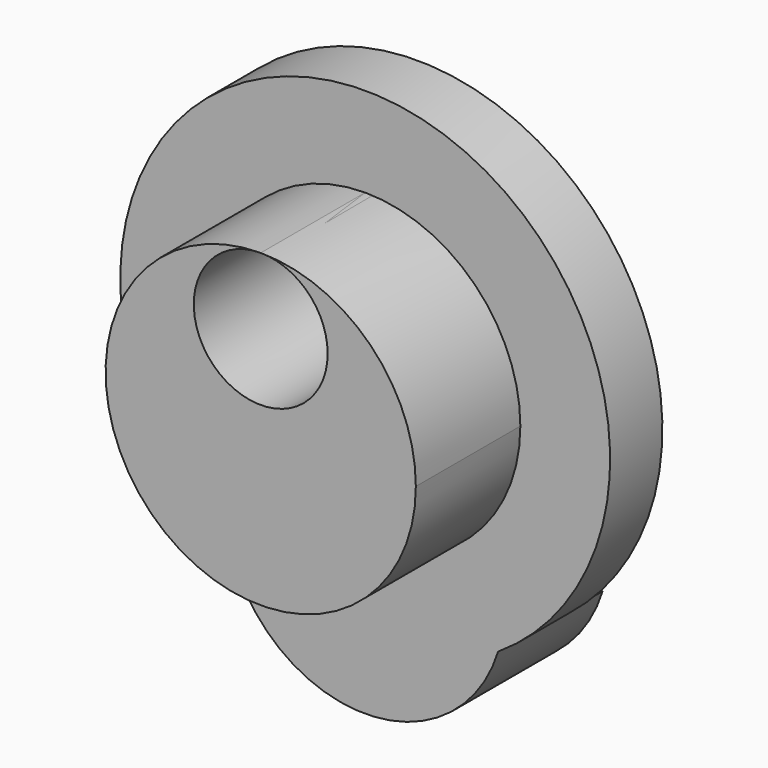
from build123d import *

# Parameters (mm, degrees)
SKETCH_R     = 7.5
PAD_DEPTH    = 2
SKETCH001_R  = 4.75
PAD001_DEPTH = 4
SKETCH002_R  = 2.05
POCKET_DEPTH = 6
PAD002_DEPTH = 2
PAD003_DEPTH = 2


with BuildPart() as part:
    # Sketch → Pad (new body)
    with BuildSketch(Plane.XZ):
        Circle(SKETCH_R)
    extrude(amount=PAD_DEPTH)

    # Sketch001 (on Face3 of Pad) → Pad001 (join)
    with BuildSketch(Plane.XZ.offset(2)):
        Circle(SKETCH001_R)
    extrude(amount=PAD001_DEPTH)

    # Sketch002 (on Face5 of Pad001) → Pocket (cut)
    with BuildSketch(Plane.XZ.offset(6)):
        with Locations((0, 2.7)):
            Circle(SKETCH002_R)
    extrude(amount=-POCKET_DEPTH, mode=Mode.SUBTRACT)

    # Sketch003 (on Face2 of Pocket) → Pad002 (join)
    with BuildSketch(Plane(origin=(0, 0, 0), x_dir=(1, 0, 0), z_dir=(0, 1, 0))):
        with BuildLine():
            Line((-4.069398, 6.3), (4.069398, 6.3))
            ThreePointArc((4.069398, 6.3), (0, 9.3), (-4.069398, 6.3))
        make_face()
    extrude(amount=PAD002_DEPTH)

    # Pad002 Face3 → Pad003 (add)
    with BuildSketch(Plane(origin=(0, 0, -7.992176), x_dir=(-1, 0, 0), z_dir=(0, -1, 0))):
        with BuildLine():
            ThreePointArc((4.069398, -1.692176), (0, 1.307824), (-4.069398, -1.692176))
            ThreePointArc((-4.069398, -1.692176), (0, -0.492176), (4.069398, -1.692176))
        make_face()
    extrude(amount=PAD003_DEPTH)


solid = part.part
